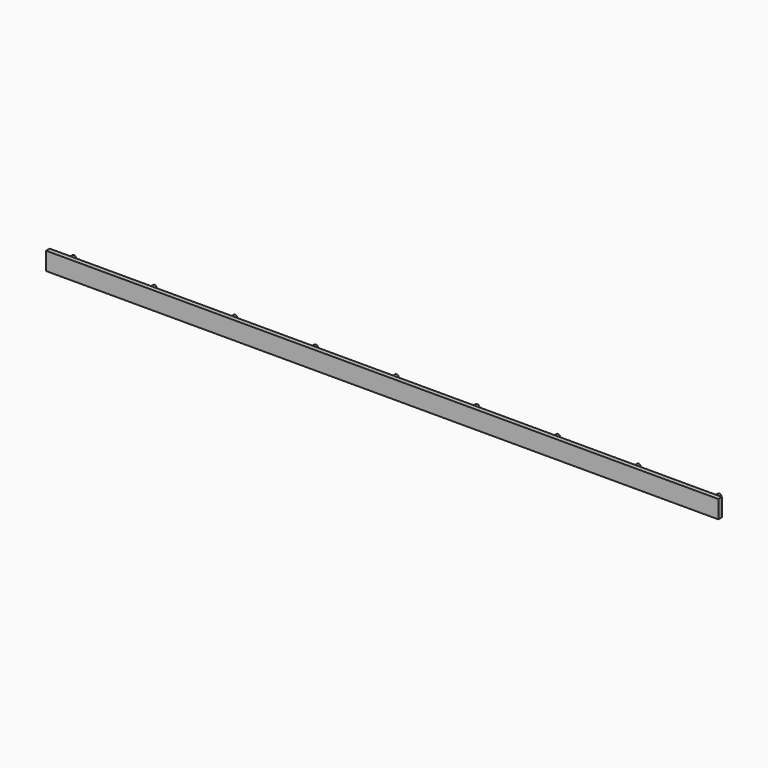
from build123d import *

# Parameters (mm, degrees)
F0_W     = 10
F0_H     = 40
F1_DEPTH = 1500
F2_R     = 5
F3_DEPTH = 30


with BuildPart() as f1:
    # F0 (on Right) → F1 (new body)
    with BuildSketch(Plane.YZ):
        with Locations((5, 20)):
            Rectangle(F0_W, F0_H)
    extrude(amount=-F1_DEPTH)

    # F2 (on face) → F3 (join)
    with BuildSketch(Plane(origin=(0, 10, 0), x_dir=(-1, 0, 0), z_dir=(0, 1, 0))):
        with Locations((30, 20)):
            Circle(F2_R)
        with Locations((210, 20)):
            Circle(F2_R)
        with Locations((390, 20)):
            Circle(F2_R)
        with Locations((570, 20)):
            Circle(F2_R)
        with Locations((750, 20)):
            Circle(F2_R)
        with Locations((930, 20)):
            Circle(F2_R)
        with Locations((1110, 20)):
            Circle(F2_R)
        with Locations((1290, 20)):
            Circle(F2_R)
        with Locations((1470, 20)):
            Circle(F2_R)
    extrude(amount=F3_DEPTH)


solid = f1.part
